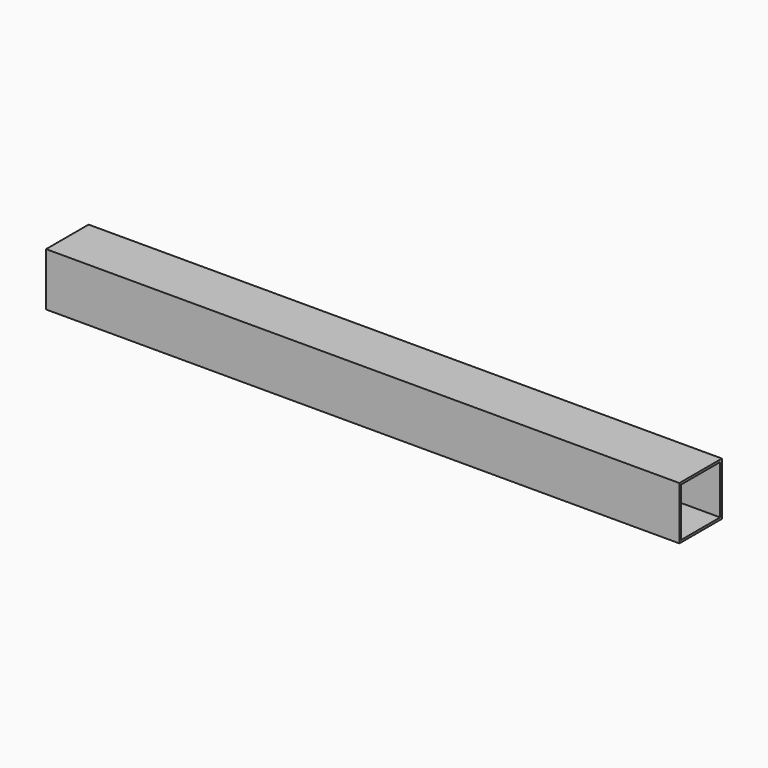
from build123d import *

# Parameters (mm, degrees)
F0_W          = 76.2
F0_H          = 76.2
F0_W_2        = 69.85
F0_H_2        = 69.85
F1_DEPTH      = 454.025
F1_DEPTH_BACK = 454.025


with BuildPart() as f1:
    # F0 (on Right) → F1 (new body, two sides)
    with BuildSketch(Plane.YZ) as f1_sk:
        Rectangle(F0_W, F0_H)
        Rectangle(F0_W_2, F0_H_2, mode=Mode.SUBTRACT)
    extrude(amount=F1_DEPTH)
    extrude(f1_sk.sketch, amount=-F1_DEPTH_BACK)


solid = f1.part
